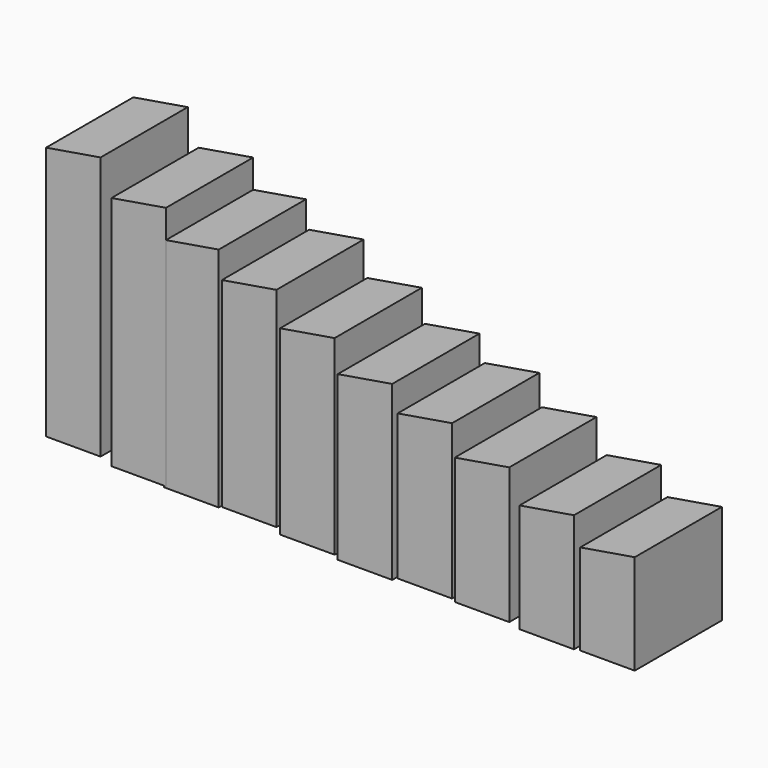
from build123d import *

# Parameters (mm, degrees)
F10_DEPTH = 19.05
F11_DEPTH = 19.05
F12_DEPTH = 19.05
F13_DEPTH = 19.05
F14_DEPTH = 19.05
F15_DEPTH = 19.05
F16_DEPTH = 19.05
F17_DEPTH = 19.05
F18_DEPTH = 19.05


with BuildPart() as f10:
    # F0 (on Front) → F10 (new body, symmetric)
    with BuildSketch(Plane.XZ):
        Polygon((-11.030553, 74.6125), (8.019447, 74.6125), (8.019447, 109.5375), (-11.030553, 106.3625), align=None)
    extrude(amount=F10_DEPTH, both=True)


with BuildPart() as f11:
    # F6 (on Front) → F11 (new body, symmetric)
    with BuildSketch(Plane.XZ):
        Polygon((-32.261007, 74.274459), (-13.211007, 74.274459), (-13.211007, 115.549459), (-32.261007, 112.374459), align=None)
    extrude(amount=F11_DEPTH, both=True)


with BuildPart() as f12:
    # F1 (on Front) → F12 (new body, symmetric)
    with BuildSketch(Plane.XZ):
        Polygon((-54.897833, 75.293961), (-35.847833, 75.293961), (-35.847833, 122.918961), (-54.897833, 119.743961), align=None)
    extrude(amount=F12_DEPTH, both=True)


with BuildPart() as f13:
    # F7 (on face) → F13 (new body, symmetric)
    with BuildSketch(Plane.XZ):
        Polygon((-74.874855, 76.044659), (-55.824855, 76.044659), (-55.824855, 130.019659), (-74.874855, 126.844659), align=None)
    extrude(amount=F13_DEPTH, both=True)


with BuildPart() as f14:
    # F2 (on Front) → F14 (new body, symmetric)
    with BuildSketch(Plane.XZ):
        Polygon((-95.808676, 74.970192), (-76.758676, 74.970192), (-76.758676, 135.295192), (-95.808676, 132.120192), align=None)
    extrude(amount=F14_DEPTH, both=True)


with BuildPart() as f15:
    # F3 (on Front) + F4 (on Front) → F15 (new body, symmetric)
    with BuildSketch(Plane.XZ):
        Polygon((-115.96167, 76.172568), (-96.91167, 76.172568), (-96.91167, 142.847568), (-115.96167, 139.672568), align=None)
    with BuildSketch(Plane.XZ):
        Polygon((-136.299475, 78.059622), (-117.249475, 78.059622), (-117.249475, 151.084622), (-136.299475, 147.909622), align=None)
    extrude(amount=F15_DEPTH, both=True)


with BuildPart() as f16:
    # F5 (on Front) → F16 (new body, symmetric)
    with BuildSketch(Plane.XZ):
        Polygon((-156.464933, 77.538876), (-137.414933, 77.538876), (-137.414933, 156.913876), (-156.464933, 153.738876), align=None)
    extrude(amount=F16_DEPTH, both=True)


with BuildPart() as f17:
    # F8 (on Front) → F17 (new body, symmetric)
    with BuildSketch(Plane.XZ):
        Polygon((-174.913419, 78.047216), (-155.863419, 78.047216), (-155.863419, 163.772216), (-174.913419, 160.597216), align=None)
    extrude(amount=F17_DEPTH, both=True)


with BuildPart() as f18:
    # F9 (on Front) → F18 (new body, symmetric)
    with BuildSketch(Plane.XZ):
        Polygon((-197.771453, 79.765112), (-178.721453, 79.765112), (-178.721453, 171.840112), (-197.771453, 168.665112), align=None)
    extrude(amount=F18_DEPTH, both=True)


solid = Compound([f10.part, f11.part, f12.part, f13.part, f14.part, f15.part, f16.part, f17.part, f18.part])
